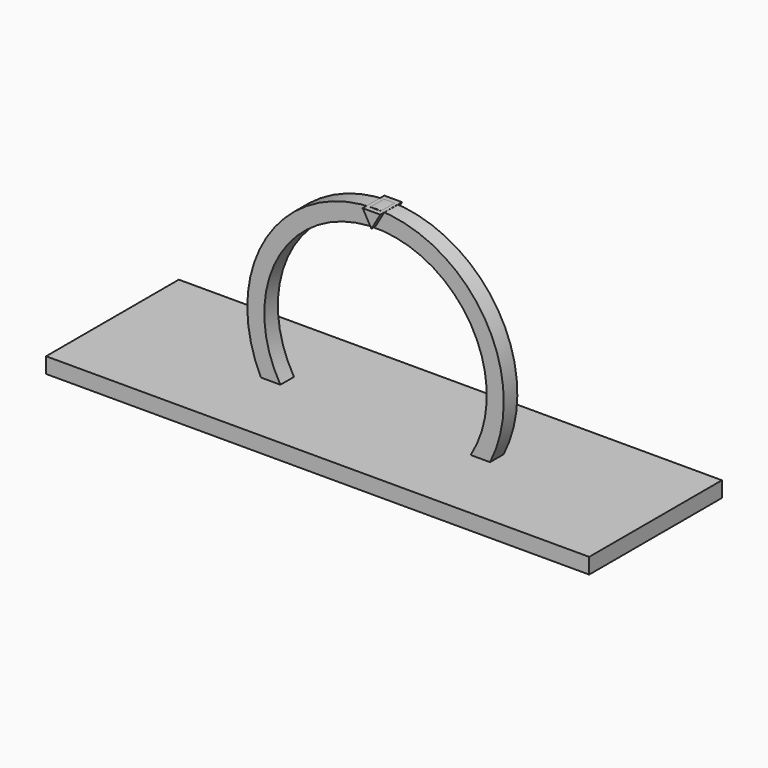
from build123d import *

# Parameters (mm, degrees)
F0_W     = 160.004504025
F0_H     = 48.8786567003
F1_DEPTH = 4.6
F3_DEPTH = 2.5
F5_DEPTH = 4


with BuildPart() as f1:
    # F0 (on Top) → F1 (new body)
    with BuildSketch(Plane.XY):
        with Locations((-1.9843913615, -0.6480617449)):
            Rectangle(F0_W, F0_H)
    extrude(amount=F1_DEPTH)

    # F2 (on Front) → F3 (join, symmetric)
    with BuildSketch(Plane.XZ):
        with BuildLine():
            Line((24.532993235, 3.8127584849), (28.7331058198, 1.1000007967))
            ThreePointArc((28.7331058198, 1.1000007967), (-2.9990799239, 59.3705006022), (-34.7312656677, 1.1000007967))
            Line((-34.7312656677, 1.1000007967), (-30.5311530828, 3.8127584849))
            ThreePointArc((-30.5311530828, 3.8127584849), (-2.9990799239, 54.3705006022), (24.532993235, 3.8127584849))
        make_face()
    extrude(amount=F3_DEPTH, both=True)


with BuildPart() as f5:
    # F4 (on face) → F5 (new body, symmetric)
    with BuildSketch(Plane.XZ.offset(2.5)):
        Polygon((-0.4010040498, 59.2810508121), (-5.5971564725, 59.2810508121), (-2.9990802612, 54.7810508121), align=None)
    extrude(amount=F5_DEPTH, both=True)


with BuildPart() as f5_1:
    # F6: moved
    add(f5.part.moved(Location((0, 2.5, 0))))


solid = Compound([f1.part, f5_1.part])
